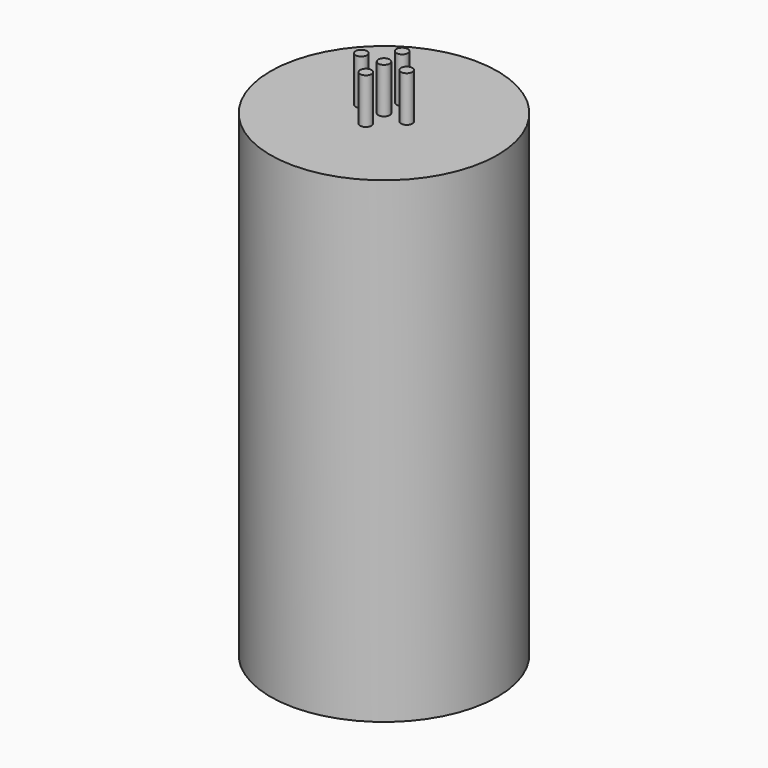
from build123d import *

# Parameters (mm, degrees)
F0_R     = 50
F1_DEPTH = 10
F2_R     = 50
F2_R_2   = 45
F3_DEPTH = 200
F4_R     = 2.5
F5_DEPTH = 20


with BuildPart() as f1:
    # F0 (on Top) → F1 (new body)
    with BuildSketch(Plane.XY):
        Circle(F0_R)
    extrude(amount=F1_DEPTH)

    # F2 (on face) → F3 (join)
    with BuildSketch(Plane(origin=(0, 0, 0), x_dir=(1, 0, 0), z_dir=(0, 0, -1))):
        Circle(F2_R)
        Circle(F2_R_2, mode=Mode.SUBTRACT)
    extrude(amount=F3_DEPTH)

    # F4 (on face) → F5 (join)
    with BuildSketch(Plane.XY.offset(10)):
        Circle(F4_R)
        with Locations((-10, 0)):
            Circle(F4_R)
        with Locations((0, 10)):
            Circle(F4_R)
        with Locations((10, 0)):
            Circle(F4_R)
        with Locations((0, -10)):
            Circle(F4_R)
    extrude(amount=F5_DEPTH)


solid = f1.part
